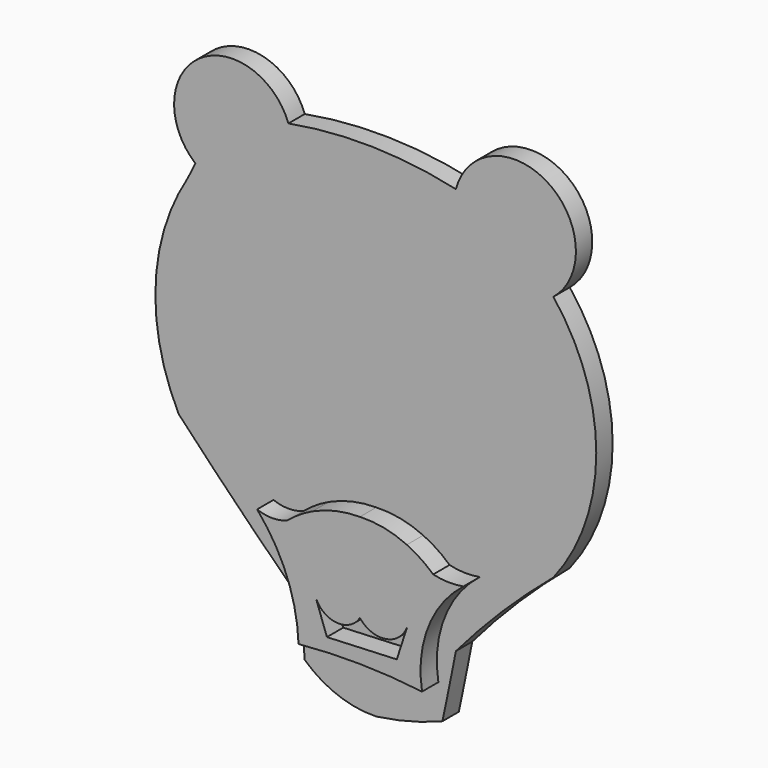
from build123d import *

# Parameters (mm, degrees)
F1_DEPTH = 3
F3_DEPTH = 3
F4_DEPTH = 3


with BuildPart() as f1:
    # F0 (on Front) → F1 (new body)
    with BuildSketch(Plane.XZ):
        with BuildLine():
            ThreePointArc((10.610182, -21.472413), (9.43467, -23.817103), (8.162286, -26.110668))
            ThreePointArc((8.162286, -26.110668), (4.736187, -40.380972), (8.162286, -54.651275))
            ThreePointArc((8.162286, -54.651275), (16.377217, -63.246062), (24.791062, -71.646221))
            ThreePointArc((24.791062, -71.646221), (26.102479, -75.930715), (26.647892, -80.3781))
            ThreePointArc((26.647892, -80.3781), (31.515082, -83.360934), (37.148613, -84.282979))
            ThreePointArc((37.148613, -84.282979), (42.081838, -83.311469), (46.856795, -81.736565))
            ThreePointArc((46.856795, -81.736565), (47.86306, -76.886336), (48.831385, -72.028391))
            ThreePointArc((48.831385, -72.028391), (55.688335, -64.651002), (63.137703, -57.872318))
            ThreePointArc((63.137703, -57.872318), (69.428725, -39.743128), (63.137703, -21.613939))
            ThreePointArc((63.137703, -21.613939), (62.345878, -7.148671), (48.831385, -12.366854))
            ThreePointArc((48.831385, -12.366854), (36.569551, -10.876763), (24.25742, -11.868899))
            ThreePointArc((24.25742, -11.868899), (11.154848, -7.747843), (10.610182, -21.472413))
        make_face()
    extrude(amount=F1_DEPTH)

    # F2 (on face) → F3 (join)
    with BuildSketch(Plane.XZ.offset(3)):
        with BuildLine():
            ThreePointArc((22.065133, -61.21042), (26.430602, -68.396115), (28.142098, -76.627903))
            ThreePointArc((28.142098, -76.627903), (37.20821, -76.271267), (46.260461, -76.886336))
            ThreePointArc((46.260461, -76.886336), (47.153606, -68.266964), (52.337427, -61.322954))
            ThreePointArc((52.337427, -61.322954), (50.114304, -61.50095), (47.903072, -61.21042))
            ThreePointArc((47.903072, -61.21042), (46.555062, -64.457231), (43.912064, -66.775307))
            ThreePointArc((43.912064, -66.775307), (44.722613, -62.717523), (44.03321, -58.637409))
            ThreePointArc((44.03321, -58.637409), (40.671762, -57.546974), (37.148613, -57.271644))
            ThreePointArc((37.148613, -57.271644), (33.581827, -57.670054), (30.184889, -58.828287))
            ThreePointArc((30.184889, -58.828287), (29.6759, -62.863739), (30.266298, -66.888086))
            ThreePointArc((30.266298, -66.888086), (27.649068, -64.531266), (26.475836, -61.21042))
            ThreePointArc((26.475836, -61.21042), (24.270484, -61.623817), (22.065133, -61.21042))
        make_face()
        with BuildLine():
            Line((32.305945, -74.377179), (30.617898, -69.65065))
            ThreePointArc((30.617898, -69.65065), (33.670475, -72.046287), (37.148613, -70.325866))
            ThreePointArc((37.148613, -70.325866), (41.008138, -71.808616), (44.129851, -69.097642))
            Line((44.129851, -69.097642), (42.557646, -73.926551))
            Line((42.557646, -73.926551), (32.305945, -74.377179))
        make_face(mode=Mode.SUBTRACT)
        with BuildLine():
            ThreePointArc((30.184889, -58.828287), (28.250667, -59.895266), (26.475836, -61.21042))
            ThreePointArc((26.475836, -61.21042), (27.649068, -64.531266), (30.266298, -66.888086))
            ThreePointArc((30.266298, -66.888086), (29.6759, -62.863739), (30.184889, -58.828287))
        make_face()
        with BuildLine():
            ThreePointArc((43.912064, -66.775307), (46.555062, -64.457231), (47.903072, -61.21042))
            ThreePointArc((47.903072, -61.21042), (46.068198, -59.773426), (44.03321, -58.637409))
            ThreePointArc((44.03321, -58.637409), (44.722613, -62.717523), (43.912064, -66.775307))
        make_face()
    extrude(amount=F3_DEPTH)

    # F2 (on face) → F4 (join)
    with BuildSketch(Plane.XZ.offset(3)):
        with BuildLine():
            ThreePointArc((22.065133, -61.21042), (26.430602, -68.396115), (28.142098, -76.627903))
            ThreePointArc((28.142098, -76.627903), (37.20821, -76.271267), (46.260461, -76.886336))
            ThreePointArc((46.260461, -76.886336), (47.153606, -68.266964), (52.337427, -61.322954))
            ThreePointArc((52.337427, -61.322954), (50.114304, -61.50095), (47.903072, -61.21042))
            ThreePointArc((47.903072, -61.21042), (46.555062, -64.457231), (43.912064, -66.775307))
            ThreePointArc((43.912064, -66.775307), (44.722613, -62.717523), (44.03321, -58.637409))
            ThreePointArc((44.03321, -58.637409), (40.671762, -57.546974), (37.148613, -57.271644))
            ThreePointArc((37.148613, -57.271644), (33.581827, -57.670054), (30.184889, -58.828287))
            ThreePointArc((30.184889, -58.828287), (29.6759, -62.863739), (30.266298, -66.888086))
            ThreePointArc((30.266298, -66.888086), (27.649068, -64.531266), (26.475836, -61.21042))
            ThreePointArc((26.475836, -61.21042), (24.270484, -61.623817), (22.065133, -61.21042))
        make_face()
        with BuildLine():
            Line((32.305945, -74.377179), (30.617898, -69.65065))
            ThreePointArc((30.617898, -69.65065), (33.670475, -72.046287), (37.148613, -70.325866))
            ThreePointArc((37.148613, -70.325866), (41.008138, -71.808616), (44.129851, -69.097642))
            Line((44.129851, -69.097642), (42.557646, -73.926551))
            Line((42.557646, -73.926551), (32.305945, -74.377179))
        make_face(mode=Mode.SUBTRACT)
        with BuildLine():
            ThreePointArc((30.184889, -58.828287), (28.250667, -59.895266), (26.475836, -61.21042))
            ThreePointArc((26.475836, -61.21042), (27.649068, -64.531266), (30.266298, -66.888086))
            ThreePointArc((30.266298, -66.888086), (29.6759, -62.863739), (30.184889, -58.828287))
        make_face()
        with BuildLine():
            ThreePointArc((43.912064, -66.775307), (46.555062, -64.457231), (47.903072, -61.21042))
            ThreePointArc((47.903072, -61.21042), (46.068198, -59.773426), (44.03321, -58.637409))
            ThreePointArc((44.03321, -58.637409), (44.722613, -62.717523), (43.912064, -66.775307))
        make_face()
    extrude(amount=F4_DEPTH)


solid = f1.part
